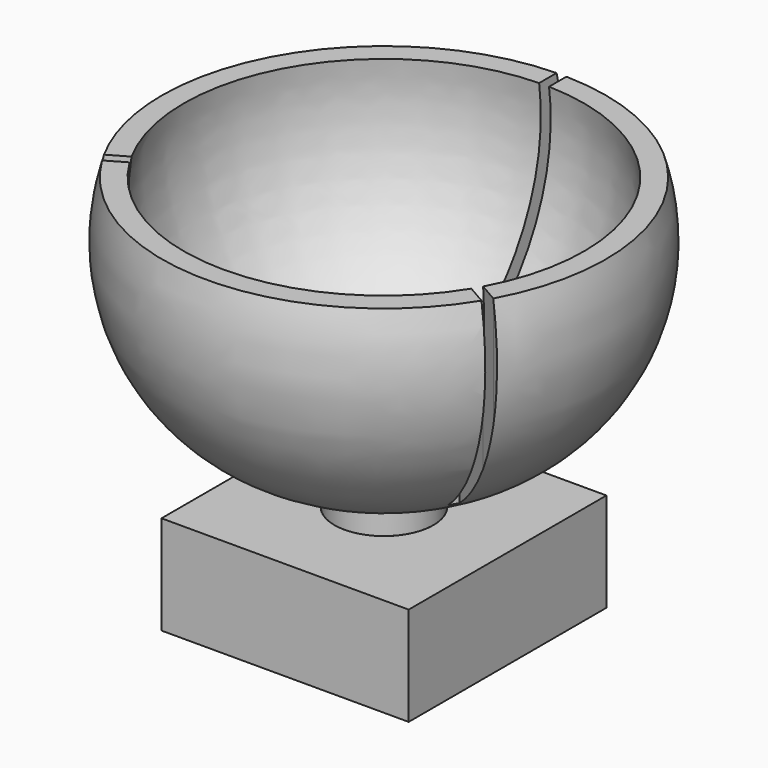
from build123d import *

# Parameters (mm, degrees)
F3_DEPTH = 25.4
F4_W     = 12.7
F4_H     = 12.7
F4_R     = 2.54
F5_DEPTH = 5.08


with BuildPart() as f1:
    # F0 (on Front) → F1 (revolve)
    with BuildSketch(Plane.XZ):
        with BuildLine():
            ThreePointArc((0, 0), (-7.8600945924, 3.5220200118), (-10.287, 11.7861498576))
            Line((-10.287, 11.7861498576), (-11.4046, 11.7861498576))
            ThreePointArc((-11.4046, 11.7861498576), (-10.0561773639, 3.1824414318), (-2.54, -1.2163220441))
            ThreePointArc((-2.54, -1.2163220441), (-1.266900433, -1.2467091699), (0, -1.1176))
            Line((0, -1.1176), (0, 0))
        make_face()
        with BuildLine():
            Line((0, -3.1213220441), (0, -1.1176))
            ThreePointArc((0, -1.1176), (-1.266900433, -1.2467091699), (-2.54, -1.2163220441))
            Line((-2.54, -1.2163220441), (-2.54, -3.1213220441))
            Line((-2.54, -3.1213220441), (0, -3.1213220441))
        make_face()
    revolve(axis=Axis((0, 0, -0.5588), (0, 0, -1)))

    # F2 (on face) → F3 (cut)
    with BuildSketch(Plane.XY.offset(11.7861498576)):
        with BuildLine():
            ThreePointArc((-9.7472234566, -5.9208560232), (-9.87667332, -5.7023), (-10.0012234566, -5.4809151181))
            Line((-10.0012234566, -5.4809151181), (-11.4054201609, -6.2916284634))
            Line((-11.4054201609, -6.2916284634), (-11.1514201609, -6.7315693685))
            Line((-11.1514201609, -6.7315693685), (-9.7472234566, -5.9208560232))
        make_face()
        with BuildLine():
            Line((-6.7860406572, -3.6246284634), (-9.0330872301, -4.9219614072))
            ThreePointArc((-9.0330872301, -4.9219614072), (-8.9088033287, -5.1435), (-8.7790872301, -5.3619023123))
            Line((-8.7790872301, -5.3619023123), (-6.5320406572, -4.0645693685))
            Line((-6.5320406572, -4.0645693685), (-6.7860406572, -3.6246284634))
        make_face()
        with BuildLine():
            ThreePointArc((-8.7790872301, -5.3619023123), (-8.9088033287, -5.1435), (-9.0330872301, -4.9219614072))
            Line((-9.0330872301, -4.9219614072), (-10.0012234566, -5.4809151181))
            ThreePointArc((-10.0012234566, -5.4809151181), (-9.87667332, -5.7023), (-9.7472234566, -5.9208560232))
            Line((-9.7472234566, -5.9208560232), (-8.7790872301, -5.3619023123))
        make_face()
        with BuildLine():
            Line((-0.254, 13.0231978319), (-0.254, 11.4017711414))
            ThreePointArc((-0.254, 11.4017711414), (0, 11.4046), (0.254, 11.4017711414))
            Line((0.254, 11.4017711414), (0.254, 13.0231978319))
            Line((0.254, 13.0231978319), (-0.254, 13.0231978319))
        make_face()
        with BuildLine():
            Line((-0.254, 11.4017711414), (-0.254, 10.2838637194))
            ThreePointArc((-0.254, 10.2838637194), (0, 10.287), (0.254, 10.2838637194))
            Line((0.254, 10.2838637194), (0.254, 11.4017711414))
            ThreePointArc((0.254, 11.4017711414), (0, 11.4046), (-0.254, 11.4017711414))
        make_face()
        with BuildLine():
            Line((-0.254, 10.2838637194), (-0.254, 7.6891978319))
            Line((-0.254, 7.6891978319), (0.254, 7.6891978319))
            Line((0.254, 7.6891978319), (0.254, 10.2838637194))
            ThreePointArc((0.254, 10.2838637194), (0, 10.287), (-0.254, 10.2838637194))
        make_face()
        with BuildLine():
            Line((11.4054201609, -6.2916284634), (10.0012234566, -5.4809151181))
            ThreePointArc((10.0012234566, -5.4809151181), (9.87667332, -5.7023), (9.7472234566, -5.9208560232))
            Line((9.7472234566, -5.9208560232), (11.1514201609, -6.7315693685))
            Line((11.1514201609, -6.7315693685), (11.4054201609, -6.2916284634))
        make_face()
        with BuildLine():
            Line((10.0012234566, -5.4809151181), (9.0330872301, -4.9219614072))
            ThreePointArc((9.0330872301, -4.9219614072), (8.9088033287, -5.1435), (8.7790872301, -5.3619023123))
            Line((8.7790872301, -5.3619023123), (9.7472234566, -5.9208560232))
            ThreePointArc((9.7472234566, -5.9208560232), (9.87667332, -5.7023), (10.0012234566, -5.4809151181))
        make_face()
        with BuildLine():
            ThreePointArc((8.7790872301, -5.3619023123), (8.9088033287, -5.1435), (9.0330872301, -4.9219614072))
            Line((9.0330872301, -4.9219614072), (6.7860406572, -3.6246284634))
            Line((6.7860406572, -3.6246284634), (6.5320406572, -4.0645693685))
            Line((6.5320406572, -4.0645693685), (8.7790872301, -5.3619023123))
        make_face()
    extrude(amount=-F3_DEPTH, mode=Mode.SUBTRACT)


with BuildPart() as f5:
    # F4 (on face) → F5 (new body)
    with BuildSketch(Plane(origin=(0, 0, -3.1213220441), x_dir=(1, 0, 0), z_dir=(0, 0, -1))):
        Rectangle(F4_W, F4_H)
        Circle(F4_R, mode=Mode.SUBTRACT)
    extrude(amount=F5_DEPTH)


solid = Compound([f1.part, f5.part])
